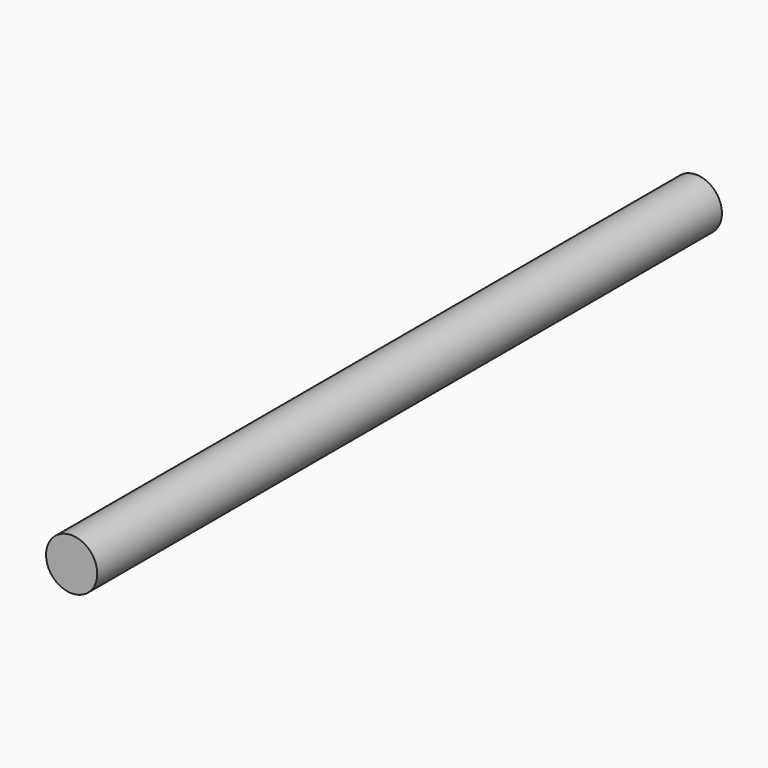
from build123d import *

# Parameters (mm, degrees)
F0_R     = 5.25
F1_DEPTH = 110
F2_DEPTH = 100
F3_DEPTH = 50


with BuildPart() as f1:
    # F0 (on Front) → F1 (new body)
    with BuildSketch(Plane.XZ):
        Circle(F0_R)
    extrude(amount=F1_DEPTH)

    # F2 (add): a face of the model
    f2_faces = [f1.faces().sort_by_distance(p)[0] for p in [
        (0, -110, 0),
    ]]
    extrude(f2_faces, amount=F2_DEPTH)

    # F3 (cut): a face of the model
    f3_faces = [f1.faces().sort_by_distance(p)[0] for p in [
        (0, -210, 0),
    ]]
    extrude(f3_faces, amount=-F3_DEPTH, mode=Mode.SUBTRACT)


solid = f1.part
